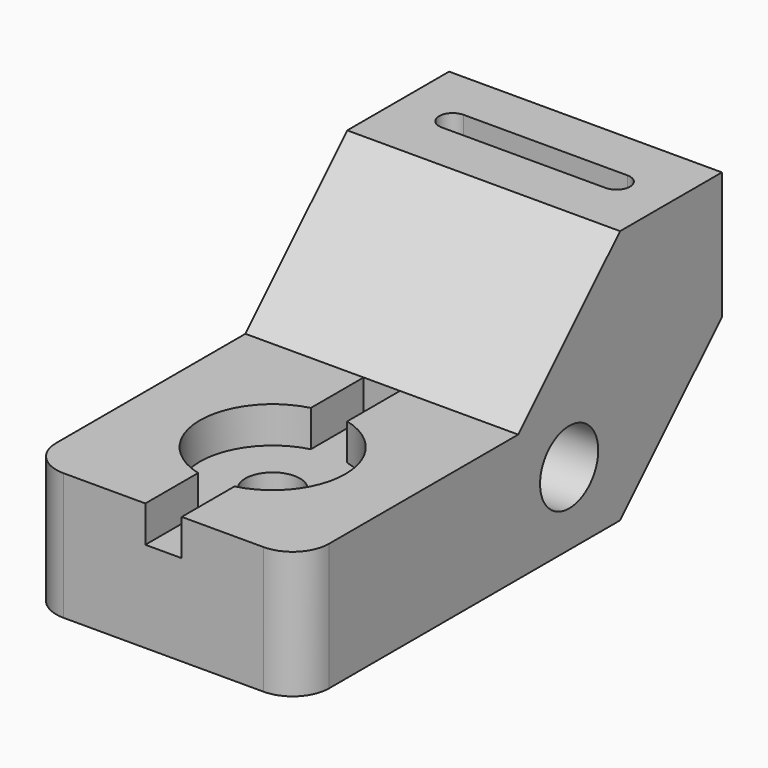
from build123d import *

# Parameters (mm, degrees)
F0_W           = 76.2
F0_H           = 147.32
F1_DEPTH       = 71.12
F3_DEPTH       = 76.201
F4_R           = 10.16
F2_R           = 10.16
F6_DEPTH       = 76.201
F8_D           = 15.24
F8_CBORE_D     = 40.64
F8_CBORE_DEPTH = 10.16
F9_DEPTH       = 27.94
F7_W           = 10.16
F7_H           = 76.2
F10_DEPTH      = 10.16


with BuildPart() as f1:
    # F0 (on Top) → F1 (new body)
    with BuildSketch(Plane.XY):
        with Locations((38.1, 73.66)):
            Rectangle(F0_W, F0_H)
    extrude(amount=F1_DEPTH)

    # F2 (on face) → F3 (cut, through all)
    with BuildSketch(Plane.YZ.offset(76.2)):
        Polygon((0, 71.12), (0, 35.56), (76.2, 35.56), (111.76, 71.12), align=None)
        Polygon((147.32, 35.56), (111.76, 0), (147.32, 0), align=None)
    extrude(amount=-F3_DEPTH, mode=Mode.SUBTRACT)

    # F4
    f4_edges = [f1.edges().sort_by_distance(p)[0] for p in [
        (76.2, 0, 17.78),
        (0, 0, 17.78),
    ]]
    fillet(f4_edges, radius=F4_R)

    # F2 (on face) → F6 (cut, through all)
    with BuildSketch(Plane.YZ.offset(76.2)):
        with Locations((93.98, 20.32)):
            Circle(F2_R)
        Polygon((147.32, 35.56), (111.76, 0), (147.32, 0), align=None)
        Polygon((0, 71.12), (0, 35.56), (76.2, 35.56), (111.76, 71.12), align=None)
    extrude(amount=-F6_DEPTH, mode=Mode.SUBTRACT)

    # F8 (through all)
    with Locations(Plane.XY.offset(35.56)):
        with Locations((38.1, 38.1)):
            CounterBoreHole(F8_D / 2, F8_CBORE_D / 2, F8_CBORE_DEPTH)

    # F5 (on face) → F9 (cut)
    with BuildSketch(Plane.XY.offset(71.12)):
        with BuildLine():
            ThreePointArc((15.24, 133.35), (11.43, 129.54), (15.24, 125.73))
            Line((15.24, 125.73), (60.96, 125.73))
            ThreePointArc((60.96, 125.73), (64.77, 129.54), (60.96, 133.35))
            Line((60.96, 133.35), (15.24, 133.35))
        make_face()
    extrude(amount=-F9_DEPTH, mode=Mode.SUBTRACT)

    # F7 (on face) → F10 (cut)
    with BuildSketch(Plane.XY.offset(35.56)):
        with Locations((38.1, 38.1)):
            Rectangle(F7_W, F7_H)
    extrude(amount=-F10_DEPTH, mode=Mode.SUBTRACT)


solid = f1.part
